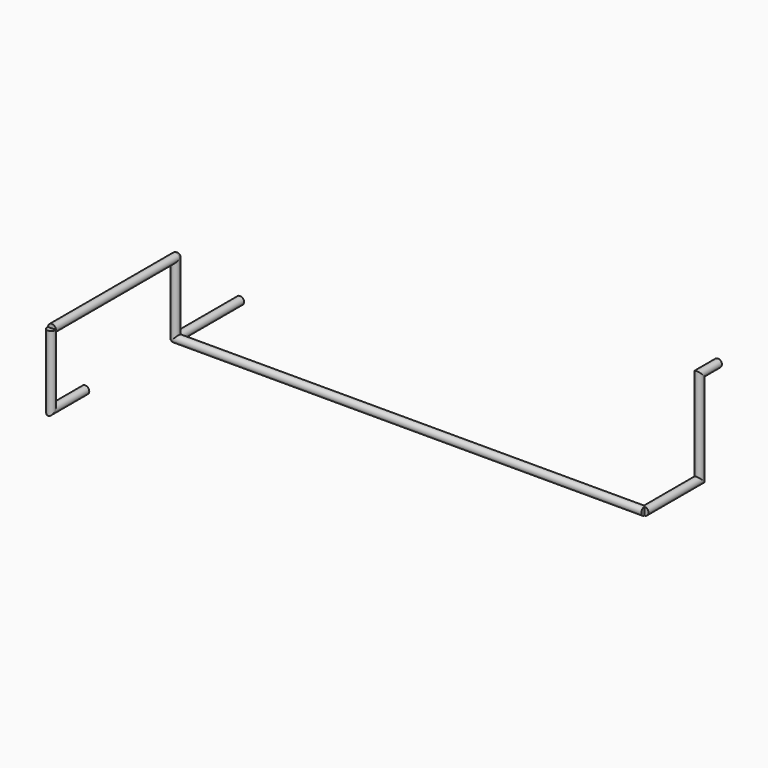
from build123d import *

# Parameters (mm, degrees)
F0_R  = 7.5
F5_R  = 7.5
F7_R  = 7.5
F10_R = 7.5
F15_R = 7.5
F19_R = 7.5


with BuildPart() as f2:
    # F2: sweep along a path in F1
    with BuildLine(Plane.YZ) as f2_path:
        Line((0, 0), (-80.781, 0))
        Line((-80.781, 0), (-80.781, 134.381))
    # F0 (on Front) → F2 (sweep)
    with BuildSketch(Plane.XZ):
        Circle(F0_R)
    sweep(path=f2_path.line, transition=Transition.RIGHT)



with BuildPart() as f6:
    # F6: sweep along a path in F3
    with BuildLine(Plane.XY) as f6_path:
        Line((0, 276.3272254467), (0, 123.3272254467))
    # F5 (on offset) → F6 (sweep)
    with BuildSketch(Plane.XZ.offset(-366)):
        Circle(F5_R)
    sweep(path=f6_path.line)

    # F8: sweep along a path in F1
    with BuildLine(Plane.YZ) as f8_path:
        Line((-80.781, 0), (-80.781, 134.381))
    # F7 (on Top) → F8 (sweep)
    with BuildSketch(Plane.XY):
        with Locations((0, 213)):
            Circle(F7_R)
    sweep(path=f8_path.line)


with BuildPart() as f2_1:
    add(f2.part)

    add(f6.part)  # F12 merges F6
    # F12: sweep along a path in F11
    with BuildLine(Plane.YZ) as f12_path:
        Line((211.219, 134.381), (-80.781, 134.381))
    # F10 (on offset) → F12 (sweep)
    with BuildSketch(Plane.XZ.offset(-213)):
        with Locations((0, 134.381)):
            Circle(F10_R)
    sweep(path=f12_path.line)

    # F8_face (on face) → F13 (revolve)
    with BuildSketch(Plane(origin=(0, 216.1830988618, 134.381), x_dir=(1, 0, 0), z_dir=(0, 0, 1))):
        with BuildLine():
            Line((-7.5, -3.1830988618), (7.5, -3.1830988618))
            ThreePointArc((7.5, -3.1830988618), (0, 4.3169011382), (-7.5, -3.1830988618))
        make_face()
    revolve(axis=Axis((0, 213, 134.381), (-1, 0, 0)))

    # F8_face1 (on face) → F14 (revolve)
    with BuildSketch(Plane(origin=(0, 209.8169011382, 0), x_dir=(1, 0, 0), z_dir=(0, 0, -1))):
        with BuildLine():
            ThreePointArc((7.5, -3.1830988618), (0, 4.3169011382), (-7.5, -3.1830988618))
            Line((-7.5, -3.1830988618), (7.5, -3.1830988618))
        make_face()
    revolve(axis=Axis((0, 213, 0), (1, 0, 0)))

    # F17: sweep along a path in F16
    with BuildLine(Plane.XZ.offset(-213)) as f17_path:
        Line((0, 0), (887.5, 0))
    # F15 (on Right) → F17 (sweep)
    with BuildSketch(Plane.YZ):
        with Locations((213, 0)):
            Circle(F15_R)
    sweep(path=f17_path.line)

    # F20: sweep along a path in F18
    with BuildLine(Plane.YZ) as f20_path:
        Line((213, 0), (343, 0))
        Line((343, 0), (343, 176))
        Line((343, 176), (386.726, 176))
    # F19 (on offset) → F20 (sweep)
    with BuildSketch(Plane.XZ.offset(-213)):
        with Locations((887.5, 0)):
            Circle(F19_R)
    sweep(path=f20_path.line, transition=Transition.RIGHT)


solid = f2_1.part
